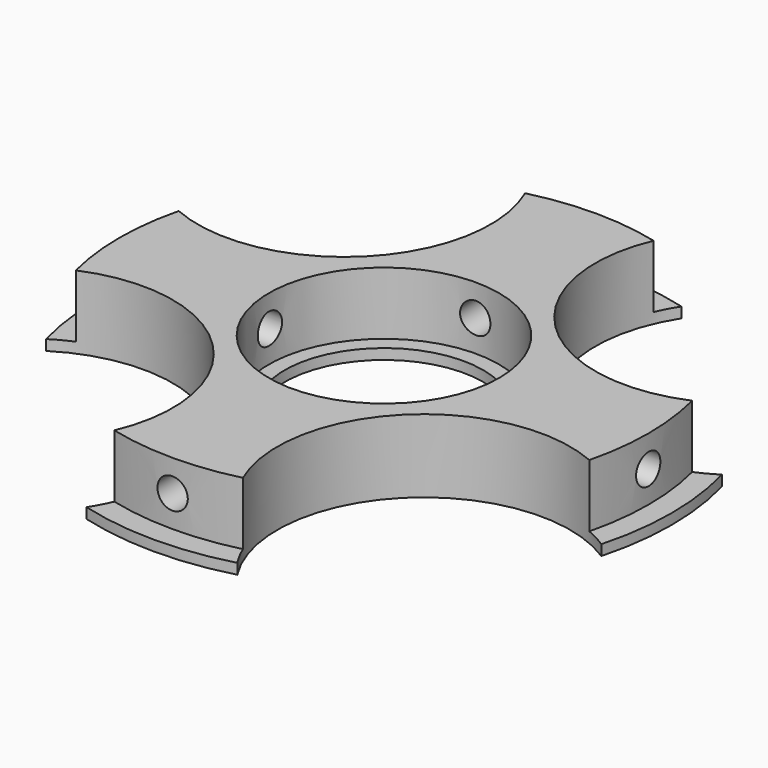
from build123d import *

# Parameters (mm, degrees)
SKETCH_R             = 27.5
PAD_DEPTH            = 1
SKETCH001_R          = 25.3
PAD001_DEPTH         = 6
SKETCH002_R          = 11
POCKET_DEPTH         = 6
SKETCH003_R          = 9.5
SKETCH003_R_2        = 14
POCKET001_DEPTH      = 7.001
POCKET001_DEPTH_BACK = -0.001
SKETCH004_R          = 1.45
POCKET002_DEPTH      = 27.501
POCKET002_DEPTH_BACK = -27.501
SKETCH005_R          = 1.45
POCKET003_DEPTH      = 27.501
POCKET003_DEPTH_BACK = -27.501


with BuildPart() as part:
    # Sketch → Pad (new body)
    with BuildSketch(Plane.XY):
        Circle(SKETCH_R)
    extrude(amount=PAD_DEPTH)

    # Sketch001 (on Face3 of Pad) → Pad001 (join)
    with BuildSketch(Plane.XY.offset(1)):
        Circle(SKETCH001_R)
    extrude(amount=PAD001_DEPTH)

    # Sketch002 (on Face5 of Pad001) → Pocket (cut)
    with BuildSketch(Plane.XY.offset(7)):
        Circle(SKETCH002_R)
    extrude(amount=-POCKET_DEPTH, mode=Mode.SUBTRACT)

    # Sketch003 (on Face5 of Pocket) → Pocket001 (cut, two sides)
    with BuildSketch(Plane.XY.offset(7)) as pocket001_sk:
        Circle(SKETCH003_R)
        with Locations((-19, 19)):
            Circle(SKETCH003_R_2)
        with Locations((19, 19)):
            Circle(SKETCH003_R_2)
        with Locations((-19, -19)):
            Circle(SKETCH003_R_2)
        with Locations((19, -19)):
            Circle(SKETCH003_R_2)
    extrude(amount=-POCKET001_DEPTH, mode=Mode.SUBTRACT)
    extrude(pocket001_sk.sketch, amount=-POCKET001_DEPTH_BACK, mode=Mode.SUBTRACT)

    # Sketch004 → Pocket002 (cut, two sides)
    with BuildSketch(Plane.XZ) as pocket002_sk:
        with Locations((0, 4)):
            Circle(SKETCH004_R)
    extrude(amount=-POCKET002_DEPTH, mode=Mode.SUBTRACT)
    extrude(pocket002_sk.sketch, amount=-POCKET002_DEPTH_BACK, mode=Mode.SUBTRACT)

    # Sketch005 → Pocket003 (cut, two sides)
    with BuildSketch(Plane.YZ) as pocket003_sk:
        with Locations((0, 4)):
            Circle(SKETCH005_R)
    extrude(amount=-POCKET003_DEPTH, mode=Mode.SUBTRACT)
    extrude(pocket003_sk.sketch, amount=-POCKET003_DEPTH_BACK, mode=Mode.SUBTRACT)


solid = part.part
